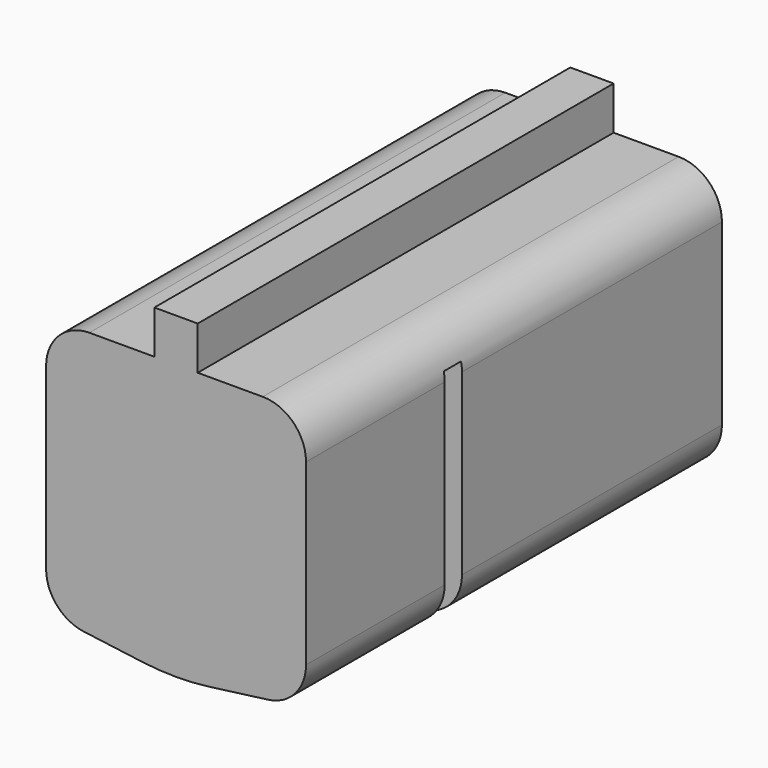
from build123d import *

# Parameters (mm, degrees)
F1_DEPTH      = 152.4
F2_R          = 12.7
F3_W          = 6.35
F3_H          = 76.2
F4_DEPTH      = 38.101
F4_DEPTH_BACK = 38.101


with BuildPart() as f1:
    # F0 (on Front) → F1 (new body)
    with BuildSketch(Plane.XZ):
        with BuildLine():
            Line((-6.35, 93.9159601581), (-6.35, 81.2159601581))
            Line((-6.35, 81.2159601581), (-38.1, 81.2159601581))
            Line((-38.1, 81.2159601581), (-38.1, 5.0159601581))
            Line((-38.1, 5.0159601581), (-9.9460958472, 1.3094283595))
            ThreePointArc((-9.9460958472, 1.3094283595), (0, 0.6575267962), (9.9460958472, 1.3094283595))
            Line((9.9460958472, 1.3094283595), (38.1, 5.0159601581))
            Line((38.1, 5.0159601581), (38.1, 81.2159601581))
            Line((38.1, 81.2159601581), (6.35, 81.2159601581))
            Line((6.35, 81.2159601581), (6.35, 93.9159601581))
            Line((6.35, 93.9159601581), (-6.35, 93.9159601581))
        make_face()
    extrude(amount=F1_DEPTH)

    # F2
    f2_edges = [f1.edges().sort_by_distance(p)[0] for p in [
        (38.1, -76.2, 81.21596),
        (-38.1, -76.2, 81.21596),
        (-38.1, -76.2, 5.01596),
        (38.1, -76.2, 5.01596),
    ]]
    fillet(f2_edges, radius=F2_R)

    # F3 (on Right) → F4 (cut, two sides)
    with BuildSketch(Plane.YZ) as f4_sk:
        with Locations((-98.425, 33.0594283595)):
            Rectangle(F3_W, F3_H)
    extrude(amount=-F4_DEPTH, mode=Mode.SUBTRACT)
    extrude(f4_sk.sketch, amount=F4_DEPTH_BACK, mode=Mode.SUBTRACT)


solid = f1.part
